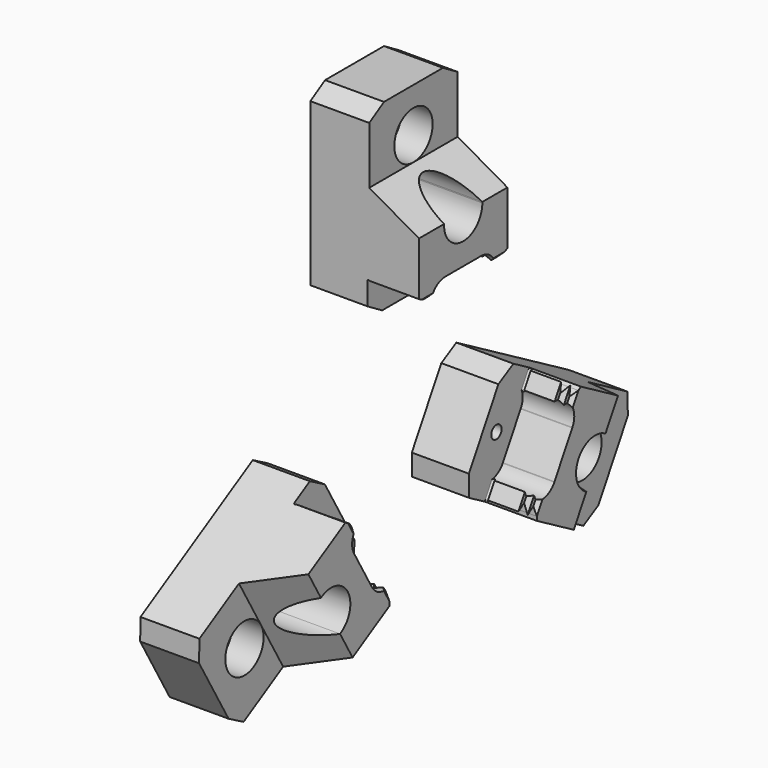
from build123d import *

# Parameters (mm, degrees)
F1_DEPTH  = 30
F3_DEPTH  = 32
F5_DEPTH  = 28
F7_DEPTH  = 28
F8_R      = 3.5
F9_DEPTH  = 17
F10_R     = 9
F11_DEPTH = 59
F10_R_2   = 13
F12_DEPTH = 44
F13_COUNT = 3


with BuildPart() as f1:
    # F0 (on Front) → F1 (new body, symmetric)
    with BuildSketch(Plane.XZ):
        with BuildLine():
            Line((3, 156.4494897428), (3, 56.4494897428))
            Line((3, 56.4494897428), (34, 56.4494897428))
            Line((34, 56.4494897428), (34, 74.4494897428))
            ThreePointArc((34, 74.4494897428), (34.75, 75.1994897428), (35.5, 74.4494897428))
            Line((35.5, 74.4494897428), (52, 74.4494897428))
            Line((52, 74.4494897428), (55, 72))
            Line((55, 72), (57, 74.4494897428))
            Line((57, 74.4494897428), (60, 72))
            Line((60, 72), (62, 74))
            Line((62, 74), (62, 104))
            Line((62, 104), (35, 119.4494897428))
            Line((35, 119.4494897428), (35, 156.4494897428))
            Line((35, 156.4494897428), (3, 156.4494897428))
        make_face()
    extrude(amount=F1_DEPTH, both=True)

    # F2 (on face) → F3 (cut, through all)
    with BuildSketch(Plane.YZ.offset(35)):
        Polygon((-30, 150.4494897428), (-20, 156.4494897428), (-30, 156.4494897428), align=None)
        Polygon((30, 156.4494897428), (20, 156.4494897428), (30, 150.4494897428), align=None)
        Polygon((30, 62.4494897428), (20, 56.4494897428), (30, 56.4494897428), align=None)
        Polygon((-30, 56.4494897428), (-20, 56.4494897428), (-30, 62.4494897428), align=None)
    extrude(amount=-F3_DEPTH, mode=Mode.SUBTRACT)

    # F4 (on face) → F5 (cut, through all)
    with BuildSketch(Plane.YZ.offset(62)):
        Polygon((-24.5, 72), (-28.1666666667, 74), (-30, 74), (-30, 72), align=None)
        Polygon((-30, 74), (-28.1666666667, 74), (-30, 75), align=None)
        Polygon((30, 74), (30, 75), (28.1666666667, 74), align=None)
        Polygon((30, 74), (28.1666666667, 74), (24.5, 72), (30, 72), align=None)
    extrude(amount=-F5_DEPTH, mode=Mode.SUBTRACT)

    # F6 (on face) → F7 (cut, through all)
    with BuildSketch(Plane.YZ.offset(62)):
        with BuildLine():
            ThreePointArc((21.5, 72), (17.8876088708, 76.6785871885), (12.2643533084, 78.5))
            Line((12.2643533084, 78.5), (12, 78.5))
            Line((12, 78.5), (0, 78.5))
            Line((0, 78.5), (-12, 78.5))
            Line((-12, 78.5), (-12.2643533084, 78.5))
            ThreePointArc((-12.2643533084, 78.5), (-17.8876088708, 76.6785871885), (-21.5, 72))
            Line((-21.5, 72), (0, 72))
            Line((0, 72), (21.5, 72))
        make_face()
        with BuildLine():
            Line((12, 78.5), (12.2643533084, 78.5))
            ThreePointArc((12.2643533084, 78.5), (12.1321766542, 78.5008735716), (12, 78.5))
        make_face()
        with BuildLine():
            Line((-12.2643533084, 78.5), (-12, 78.5))
            ThreePointArc((-12, 78.5), (-12.1321766542, 78.5008735716), (-12.2643533084, 78.5))
        make_face()
    extrude(amount=-F7_DEPTH, mode=Mode.SUBTRACT)

    # F8 (on face) → F9 (cut)
    with BuildSketch(Plane.YZ.offset(34)):
        with Locations((0, 66.4494897428)):
            Circle(F8_R)
    extrude(amount=-F9_DEPTH, mode=Mode.SUBTRACT)

    # F10 (on face) → F11 (cut, through all)
    with BuildSketch(Plane.YZ.offset(62)):
        with Locations((0, 132.4494897428)):
            Circle(F10_R)
        with BuildLine():
            ThreePointArc((9, 103.4494897428), (8.9957858807, 103.724873816), (8.9831474694, 104))
            Line((8.9831474694, 104), (-8.9831474694, 104))
            ThreePointArc((-8.9831474694, 104), (-0.2753840732, 94.453703862), (9, 103.4494897428))
        make_face()
        with BuildLine():
            Line((-8.9831474694, 104), (8.9831474694, 104))
            ThreePointArc((8.9831474694, 104), (0, 112.4494897428), (-8.9831474694, 104))
        make_face()
    extrude(amount=-F11_DEPTH, mode=Mode.SUBTRACT)

    # F10 (on face) → F12 (cut)
    with BuildSketch(Plane.YZ.offset(62)):
        with Locations((0, 132.4494897428)):
            Circle(F10_R_2)
        with Locations((0, 132.4494897428)):
            Circle(F10_R, mode=Mode.SUBTRACT)
        with BuildLine():
            Line((8.9831474694, 104), (12.9883385564, 104))
            ThreePointArc((12.9883385564, 104), (0, 116.4494897428), (-12.9883385564, 104))
            Line((-12.9883385564, 104), (-8.9831474694, 104))
            ThreePointArc((-8.9831474694, 104), (0, 112.4494897428), (8.9831474694, 104))
        make_face()
        with BuildLine():
            ThreePointArc((-12.9883385564, 104), (-0.2753168777, 90.4524054306), (13, 103.4494897428))
            ThreePointArc((13, 103.4494897428), (12.9970843121, 103.7248066205), (12.9883385564, 104))
            Line((12.9883385564, 104), (8.9831474694, 104))
            ThreePointArc((8.9831474694, 104), (8.9957858807, 103.724873816), (9, 103.4494897428))
            ThreePointArc((9, 103.4494897428), (-0.2753840732, 94.453703862), (-8.9831474694, 104))
            Line((-8.9831474694, 104), (-12.9883385564, 104))
        make_face()
    extrude(amount=-F12_DEPTH, mode=Mode.SUBTRACT)


with BuildPart() as f13_1:
    # F13: instance of F1
    add(f1.part.rotate(Axis((35.0410677493, 0, 0), (1, 0, 0)), 1 * 360 / F13_COUNT))


with BuildPart() as f13_2:
    # F13: instance of F1
    add(f1.part.rotate(Axis((35.0410677493, 0, 0), (1, 0, 0)), 2 * 360 / F13_COUNT))


solid = Compound([f1.part, f13_1.part, f13_2.part])
